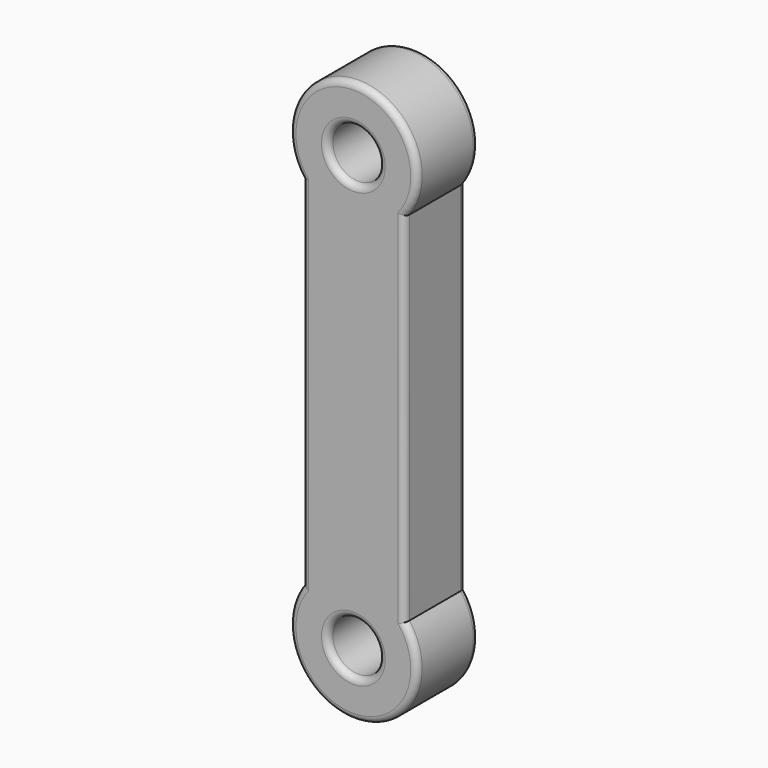
from build123d import *

# Parameters (mm, degrees)
F0_R     = 6.35
F1_DEPTH = 19.05
F2_R     = 1.5875


with BuildPart() as f1:
    # F0 (on Front) → F1 (new body)
    with BuildSketch(Plane.XZ):
        with BuildLine():
            Line((-12.7, 98.425), (-12.7, 9.525))
            ThreePointArc((-12.7, 9.525), (0, -15.875), (12.7, 9.525))
            Line((12.7, 9.525), (12.7, 98.425))
            ThreePointArc((12.7, 98.425), (0, 123.825), (-12.7, 98.425))
        make_face()
        Circle(F0_R, mode=Mode.SUBTRACT)
        with Locations((0, 107.95)):
            Circle(F0_R, mode=Mode.SUBTRACT)
    extrude(amount=F1_DEPTH)

    # F2
    f2_edges = [f1.edges().sort_by_distance(p)[0] for p in [
        (12.7, -19.05, 53.975),
        (0, -19.05, 123.825),
        (-12.7, -19.05, 53.975),
        (0, -19.05, -15.875),
        (-6.35, -19.05, 0),
        (-6.35, -19.05, 107.95),
        (12.7, 0, 53.975),
        (0, 0, 123.825),
        (-12.7, 0, 53.975),
        (0, 0, -15.875),
        (-6.35, 0, 0),
        (-6.35, 0, 107.95),
    ]]
    fillet(f2_edges, radius=F2_R)


solid = f1.part
